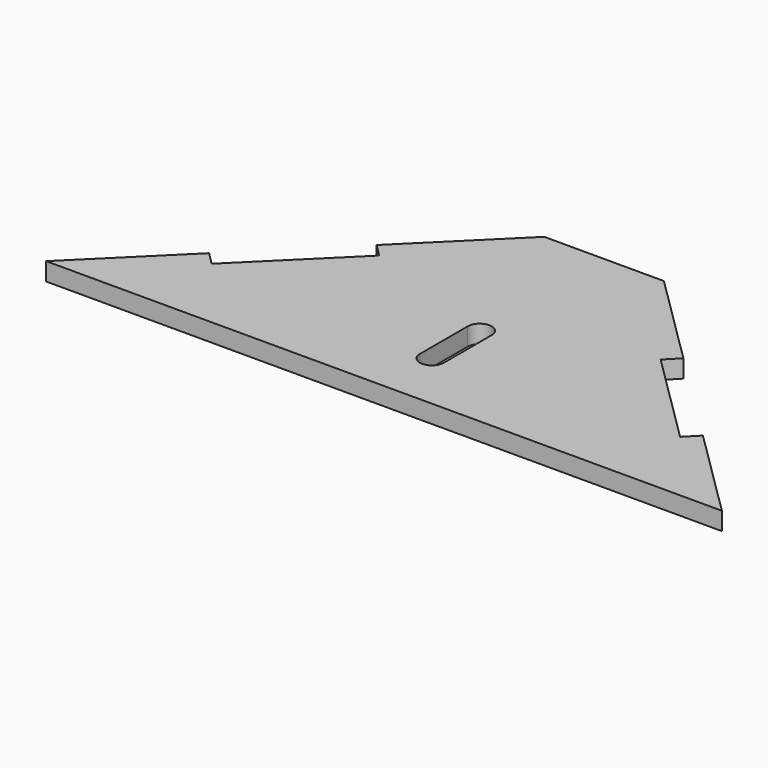
from build123d import *

# Parameters (mm, degrees)
F1_DEPTH = 3
F3_DEPTH = 25
F4_ANGLE = 90
F5_ANGLE = -180


with BuildPart() as f1:
    # F0 (on Front) → F1 (new body)
    with BuildSketch(Plane.XZ):
        Polygon((66.5, 46), (46.5, 46), (30.8597909292, 30.5279652203), (32.9696138537, 28.395209438), (17.329404783, 12.9231746583), (15.2195818585, 15.0559304407), (0, 0), (113, 0), (97.7804181415, 15.0559304407), (95.670595217, 12.9231746583), (80.0303861463, 28.395209438), (82.1402090708, 30.5279652203), align=None)
    extrude(amount=F1_DEPTH)

    # F2 (on face) → F3 (cut)
    with BuildSketch(Plane.XZ.offset(3)):
        with BuildLine():
            Line((58.5, 10), (58.5, 19.6270607412))
            Line((58.5, 19.6270607412), (58.5, 20))
            ThreePointArc((58.5, 20), (56.5, 22), (54.5, 20))
            Line((54.5, 20), (54.5, 10))
            ThreePointArc((54.5, 10), (56.5, 8), (58.5, 10))
        make_face()
    extrude(amount=-F3_DEPTH, mode=Mode.SUBTRACT)


with BuildPart() as f1_1:
    # F4: moved
    add(f1.part.rotate(Axis((56.5, -3, 0), (1, 0, 0)), F4_ANGLE))


with BuildPart() as f1_2:
    # F5: moved
    add(f1_1.part.rotate(Axis((0, -3, 1.5), (0, 0, 1)), F5_ANGLE))


solid = f1_2.part
